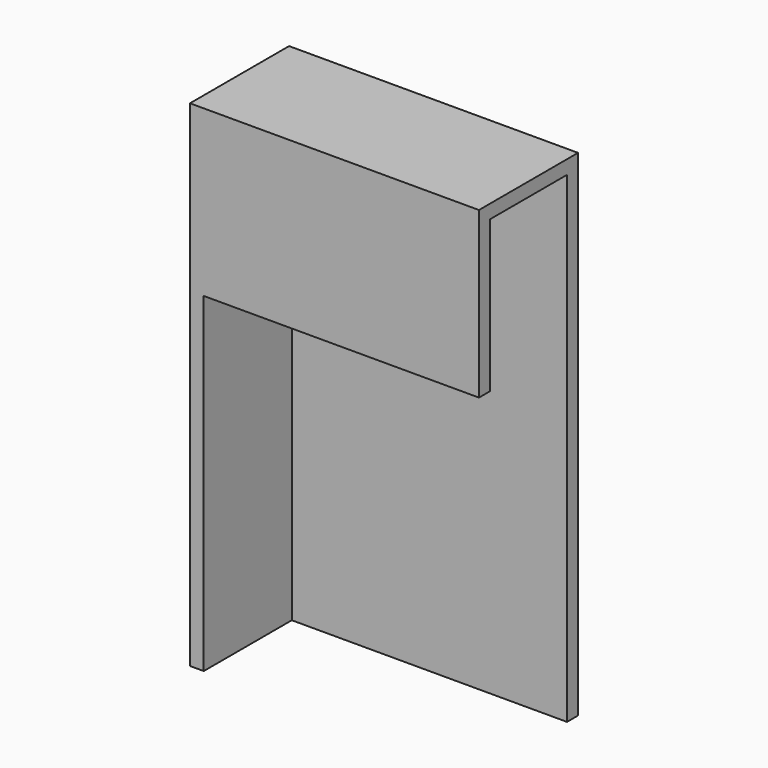
from build123d import *

# Parameters (mm, degrees)
F0_W      = 63.5
F0_H      = 38.1
F1_DEPTH  = 3.175
F2_W      = 22.225
F2_H      = 38.1
F2_W_2    = 3.175
F3_DEPTH  = 3.175
F5_DEPTH  = 76.2
F6_W      = 63.5
F6_H      = 114.3
F6_W_2    = 3.175
F7_DEPTH  = 3.175
F8_W      = 63.5
F8_H      = 22.225
F9_DEPTH  = 3.175
F11_DEPTH = 76.2
F13_DEPTH = 3.175
F14_W     = 28.575
F14_H     = 38.1
F15_DEPTH = 3.175


with BuildPart() as f1:
    # F0 (on Front) → F1 (new body)
    with BuildSketch(Plane.XZ):
        Rectangle(F0_W, F0_H)
    extrude(amount=F1_DEPTH)

    # F2 (on face) → F3 (join)
    with BuildSketch(Plane.YZ.offset(31.75)):
        with Locations((11.1125, 0)):
            Rectangle(F2_W, F2_H)
        with Locations((-1.5875, 0)):
            Rectangle(F2_W_2, F2_H)
    extrude(amount=F3_DEPTH)

    # F4 (on face) → F5 (join)
    with BuildSketch(Plane(origin=(0, 0, -19.05), x_dir=(1, 0, 0), z_dir=(0, 0, -1))):
        Polygon((31.75, -22.225), (34.925, -22.225), (34.925, 3.175), (31.75, 3.175), (31.75, 0), align=None)
    extrude(amount=F5_DEPTH)

    # F6 (on face) → F7 (join)
    with BuildSketch(Plane(origin=(0, 22.225, 0), x_dir=(-1, 0, 0), z_dir=(0, 1, 0))):
        with Locations((0, -38.1)):
            Rectangle(F6_W, F6_H)
        with Locations((-33.3375, -38.1)):
            Rectangle(F6_W_2, F6_H)
    extrude(amount=F7_DEPTH)

    # F8 (on face) → F9 (join)
    with BuildSketch(Plane.XY.offset(19.05)):
        with Locations((0, 11.1125)):
            Rectangle(F8_W, F8_H)
    extrude(amount=-F9_DEPTH)

    # F10 (on face) → F11 (cut)
    with BuildSketch(Plane(origin=(0, 0, -95.25), x_dir=(1, 0, 0), z_dir=(0, 0, -1))):
        Polygon((34.925, 3.175), (31.75, 3.175), (31.75, -22.225), (31.75, -25.4), (34.925, -25.4), align=None)
    extrude(amount=-F11_DEPTH, mode=Mode.SUBTRACT)

    # F12 (on face) → F13 (join)
    with BuildSketch(Plane(origin=(-31.75, 0, 0), x_dir=(0, -1, 0), z_dir=(-1, 0, 0))):
        Polygon((3.175, -95.25), (3.175, -19.05), (0, -19.05), (0, 15.875), (-22.225, 15.875), (-22.225, -95.25), align=None)
        Polygon((3.175, 19.05), (-25.4, 19.05), (-25.4, -95.25), (-22.225, -95.25), (-22.225, 15.875), (0, 15.875), (0, -19.05), (3.175, -19.05), align=None)
    extrude(amount=F13_DEPTH)

    # F14 (on face) → F15 (cut)
    with BuildSketch(Plane.YZ.offset(34.925)):
        with Locations((11.1125, 0)):
            Rectangle(F14_W, F14_H)
    extrude(amount=-F15_DEPTH, mode=Mode.SUBTRACT)


solid = f1.part
